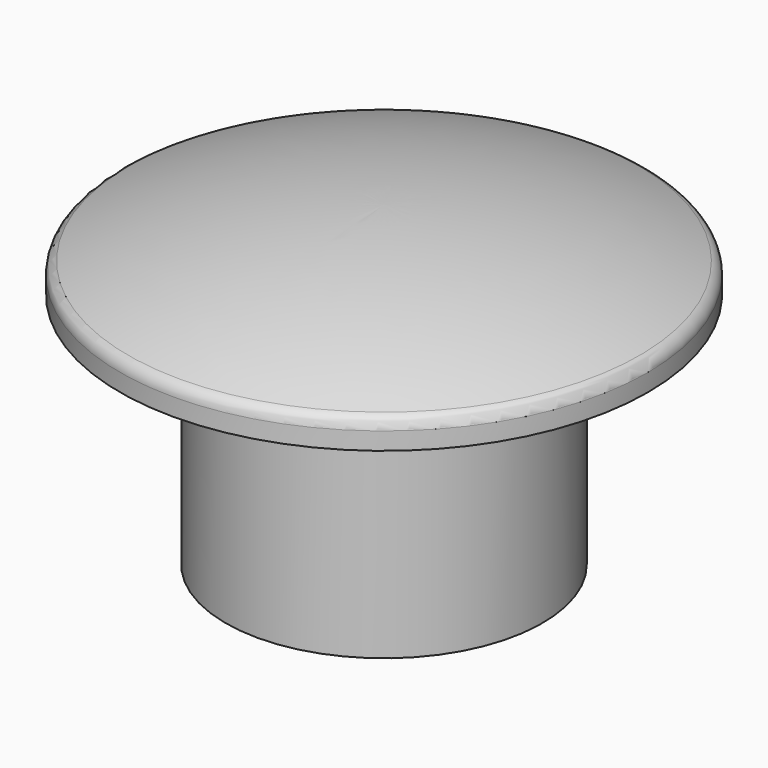
from build123d import *


with BuildPart() as f1:
    # F0 (on Right) → F1 (revolve)
    with BuildSketch(Plane.YZ):
        with BuildLine():
            Line((-6, 0), (0, 0))
            Line((0, 0), (0, 12))
            ThreePointArc((0, 12), (-4.932724, 11.527793), (-9.686275, 10.128325))
            ThreePointArc((-9.686275, 10.128325), (-9.914208, 9.944375), (-10, 9.664319))
            Line((-10, 9.664319), (-10, 9))
            Line((-10, 9), (-6, 9))
            Line((-6, 9), (-6, 0))
        make_face()
    revolve(axis=Axis((0, 0, 6), (0, 0, -1)))


solid = f1.part
